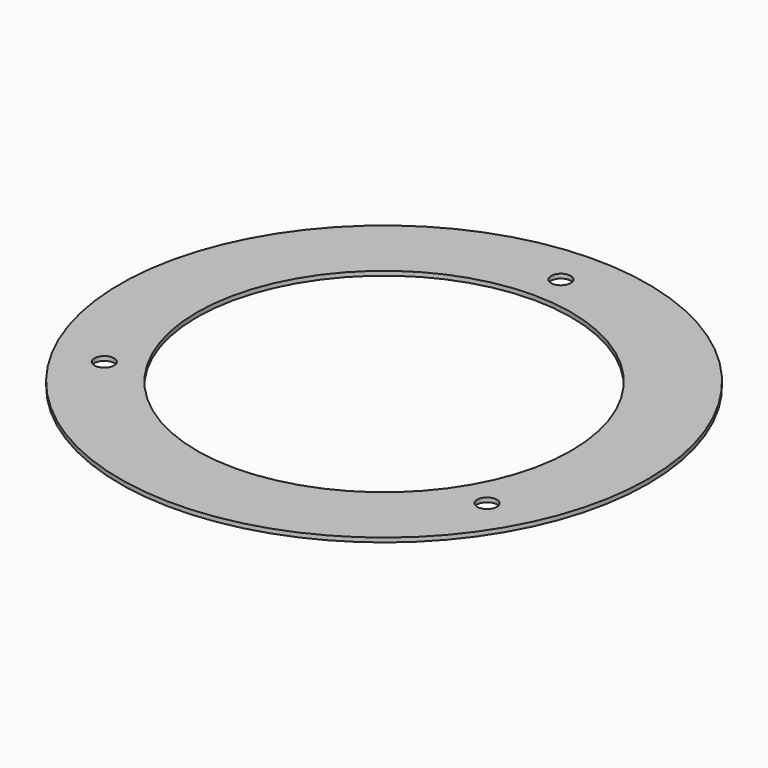
from build123d import *

# Parameters (mm, degrees)
SKETCH006_R   = 43
SKETCH006_R_2 = 1.6
SKETCH006_R_3 = 30.5
PAD_DEPTH     = 0.7


with BuildPart() as part:
    # Sketch006 → Pad (new body)
    with BuildSketch(Plane.XY.offset(22)):
        Circle(SKETCH006_R)
        with Locations((0, 36)):
            Circle(SKETCH006_R_2, mode=Mode.SUBTRACT)
        with Locations((31.176915, -18)):
            Circle(SKETCH006_R_2, mode=Mode.SUBTRACT)
        with Locations((-31.176915, -18)):
            Circle(SKETCH006_R_2, mode=Mode.SUBTRACT)
        Circle(SKETCH006_R_3, mode=Mode.SUBTRACT)
    extrude(amount=PAD_DEPTH)


solid = part.part
